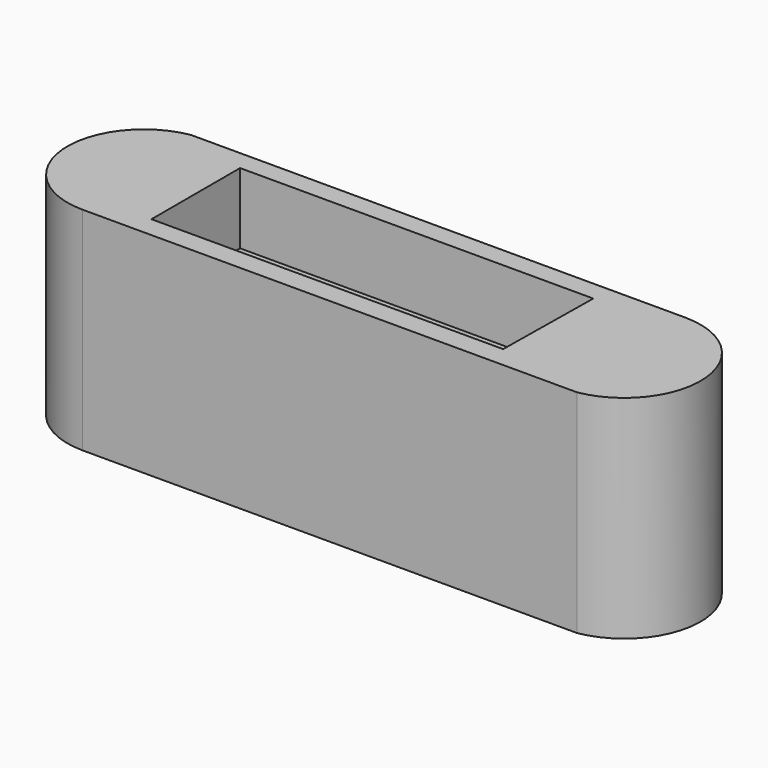
from build123d import *

# Parameters (mm, degrees)
F1_DEPTH  = 12.7
F4_DEPTH  = 25.4
F5_DEPTH  = 25.4
F7_DEPTH  = 12.7
F9_DEPTH  = 25.4
F10_W     = 2.54
F10_H     = 5.5179311894
F11_DEPTH = 25.4


with BuildPart() as f1:
    # F0 (on Top) → F1 (new body)
    with BuildSketch(Plane.XY):
        with BuildLine():
            Line((44.7565504849, 0), (-44.1434495151, 0))
            ThreePointArc((-44.1434495151, 0), (-55.4417593201, -14.7112042456), (-41.7676718473, -27.2447858006))
            Line((-41.7676718473, -27.2447858006), (47.1323281527, -27.2447858006))
            ThreePointArc((47.1323281527, -27.2447858006), (58.4306379576, -12.5335815549), (44.7565504849, 0))
        make_face()
    extrude(amount=F1_DEPTH)

    # F2 (on face) → F4 (join)
    with BuildSketch(Plane(origin=(0, 0, 0), x_dir=(1, 0, 0), z_dir=(0, 0, -1))):
        with BuildLine():
            Line((47.1323281527, 27.2447858006), (-34.4870686531, 27.2447858006))
            Line((-34.4870686531, 27.2447858006), (-34.4870686531, 0))
            Line((-34.4870686531, 0), (44.7565504849, 0))
            ThreePointArc((44.7565504849, 0), (58.4306379576, 12.5335815549), (47.1323281527, 27.2447858006))
        make_face()
    extrude(amount=F4_DEPTH)

    # F5 (add): a face of the model
    f5_faces = [f1.faces().sort_by_distance(p)[0] for p in [
        (-43.7953743511, -13.5694519924, 0),
    ]]
    extrude(f5_faces, amount=F5_DEPTH)

    # F6 (on face) → F7 (cut)
    with BuildSketch(Plane.XY.offset(12.7)):
        Polygon((30.7856556028, -23.4677214175), (31.0655402243, -3.554351395), (-32.4344597757, -3.554351395), (-32.4344597757, -23.4677214175), align=None)
    extrude(amount=-F7_DEPTH, mode=Mode.SUBTRACT)

    # F8 (on face) → F9 (cut)
    with BuildSketch(Plane(origin=(0, 0, -25.4), x_dir=(1, 0, 0), z_dir=(0, 0, -1))):
        Polygon((5.08, 12.5303016976), (0, 12.5303016976), (-5.058103241, 12.5303016976), (-5.058103241, 7.0123705082), (5.08, 7.0123705082), align=None)
    extrude(amount=-F9_DEPTH, mode=Mode.SUBTRACT)

    # F10 (on face) → F11 (cut)
    with BuildSketch(Plane(origin=(0, 0, -25.4), x_dir=(1, 0, 0), z_dir=(0, 0, -1))):
        with Locations((-6.328103241, 9.7713361029)):
            Rectangle(F10_W, F10_H)
        with Locations((6.35, 9.7713361029)):
            Rectangle(F10_W, F10_H)
    extrude(amount=-F11_DEPTH, mode=Mode.SUBTRACT)


solid = f1.part
